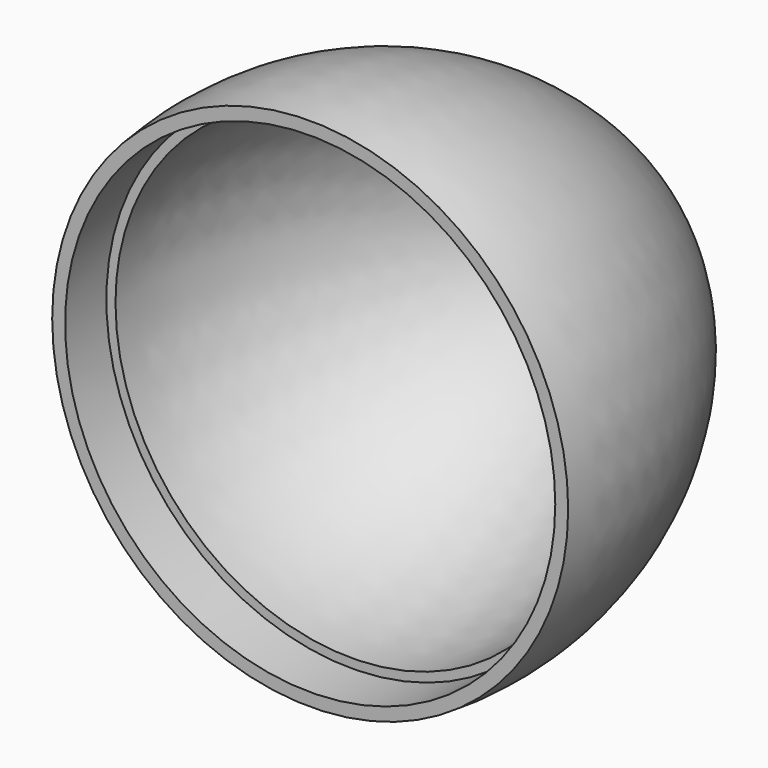
from build123d import *

# Parameters (mm, degrees)
F2_R     = 38
F2_R_2   = 36
F3_DEPTH = 8


with BuildPart() as f1:
    # F0 (on Top) → F1 (revolve)
    with BuildSketch(Plane.XY):
        with BuildLine():
            ThreePointArc((-36, 0), (-28.676905, 35.820403), (0, 58.5))
            Line((0, 58.5), (0, 62.5))
            ThreePointArc((0, 62.5), (-31.567522, 38.653214), (-40, 0))
            Line((-40, 0), (-36, 0))
        make_face()
    revolve(axis=Axis((0, 29.25, 0), (0, 1, 0)))

    # F2 (on face) → F3 (cut)
    with BuildSketch(Plane.XZ):
        Circle(F2_R)
        Circle(F2_R_2, mode=Mode.SUBTRACT)
    extrude(amount=-F3_DEPTH, mode=Mode.SUBTRACT)


solid = f1.part
